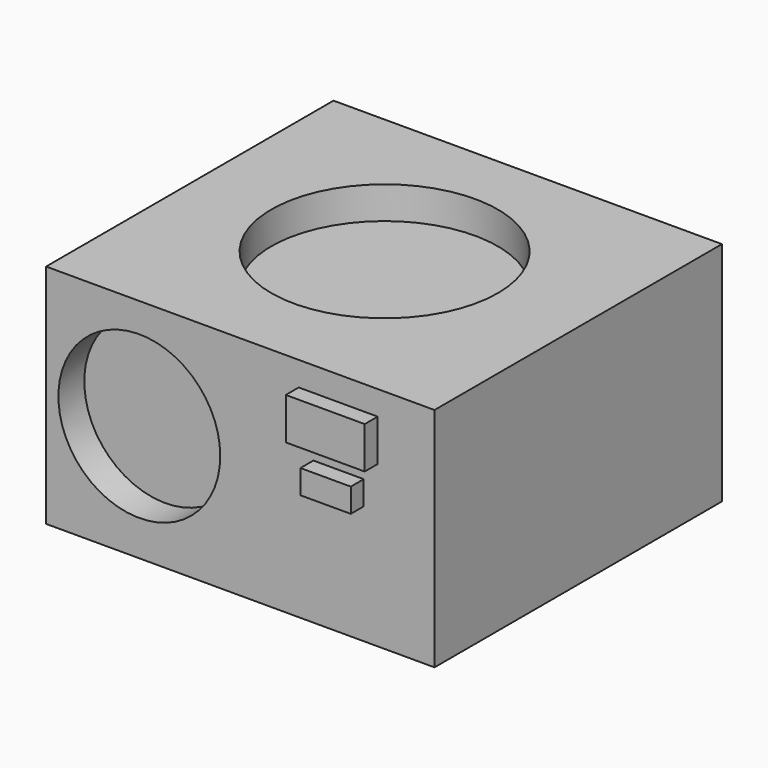
from build123d import *

# Parameters (mm, degrees)
F0_W     = 152.4
F0_H     = 88.9
F1_DEPTH = 140.97
F2_R     = 12.7
F3_DEPTH = 12.7
F4_R     = 44.45
F5_DEPTH = 12.7
F6_R     = 31.75
F7_DEPTH = 12.7
F6_W     = 30.967094
F6_H     = 16.394339
F6_W_2   = 19.733936
F6_H_2   = 9.411566
F8_DEPTH = 6.35


with BuildPart() as f1:
    # F0 (on Front) → F1 (new body)
    with BuildSketch(Plane.XZ):
        with Locations((76.2, 44.45)):
            Rectangle(F0_W, F0_H)
    extrude(amount=-F1_DEPTH)

    # F2 (on face) → F3 (cut)
    with BuildSketch(Plane(origin=(0, 140.97, 0), x_dir=(-1, 0, 0), z_dir=(0, 1, 0))):
        with Locations((-133.2082, 19.652179)):
            Circle(F2_R)
    extrude(amount=-F3_DEPTH, mode=Mode.SUBTRACT)

    # F4 (on face) → F5 (cut)
    with BuildSketch(Plane.XY.offset(88.9)):
        with Locations((74.677013, 72.679326)):
            Circle(F4_R)
    extrude(amount=-F5_DEPTH, mode=Mode.SUBTRACT)

    # F6 (on face) → F7 (cut)
    with BuildSketch(Plane.XZ):
        with Locations((36.581997, 45.666065)):
            Circle(F6_R)
    extrude(amount=-F7_DEPTH, mode=Mode.SUBTRACT)

    # F6 (on face) → F8 (join)
    with BuildSketch(Plane.XZ):
        with Locations((114.606928, 71.168374)):
            Rectangle(F6_W, F6_H)
        with Locations((114.75873, 51.282644)):
            Rectangle(F6_W_2, F6_H_2)
    extrude(amount=F8_DEPTH)


solid = f1.part
